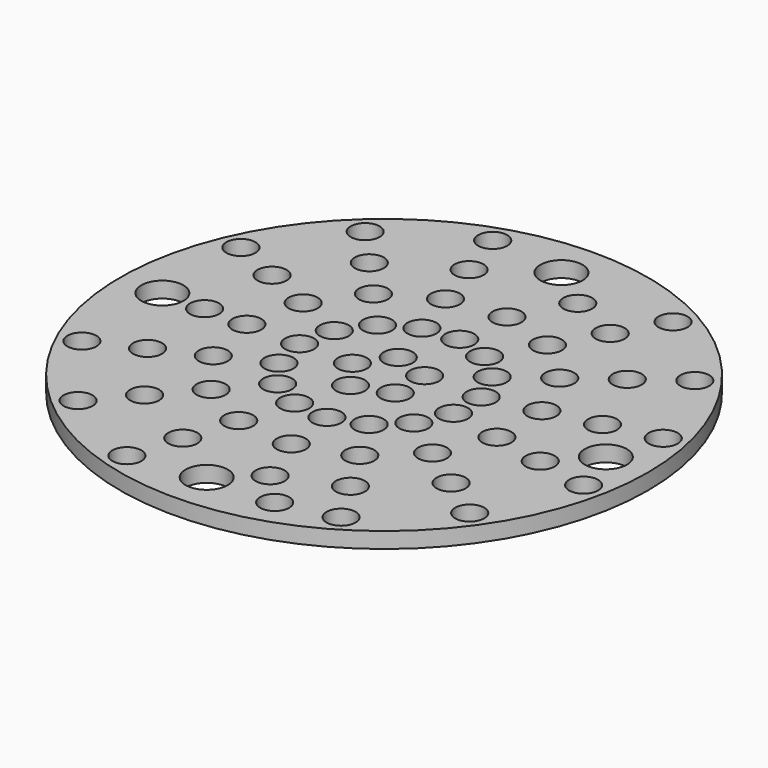
from build123d import *

# Parameters (mm, degrees)
F0_R     = 50
F0_R_2   = 2.75
F0_R_3   = 4
F1_DEPTH = 3


with BuildPart() as f1:
    # F0 (on Top) → F1 (new body)
    with BuildSketch(Plane.XY):
        Circle(F0_R)
        with Locations((-30.221972, -34.678991)):
            Circle(F0_R_2, mode=Mode.SUBTRACT)
        with Locations((-13.558738, -43.956349)):
            Circle(F0_R_2, mode=Mode.SUBTRACT)
        with Locations((-23.651978, -27.14008)):
            Circle(F0_R_2, mode=Mode.SUBTRACT)
        with Locations((-10.611186, -34.400621)):
            Circle(F0_R_2, mode=Mode.SUBTRACT)
        with Locations((-41.690158, -19.44044)):
            Circle(F0_R_2, mode=Mode.SUBTRACT)
        with Locations((-32.62708, -15.214257)):
            Circle(F0_R_2, mode=Mode.SUBTRACT)
        with Locations((-17.081984, -19.601169)):
            Circle(F0_R_2, mode=Mode.SUBTRACT)
        with Locations((-7.663635, -24.844893)):
            Circle(F0_R_2, mode=Mode.SUBTRACT)
        with Locations((-4.716083, -15.289165)):
            Circle(F0_R_2, mode=Mode.SUBTRACT)
        with Locations((-23.564002, -10.988075)):
            Circle(F0_R_2, mode=Mode.SUBTRACT)
        with Locations((-14.500925, -6.761892)):
            Circle(F0_R_2, mode=Mode.SUBTRACT)
        with Locations((-10.51199, -12.062258)):
            Circle(F0_R_2, mode=Mode.SUBTRACT)
        with Locations((-1.768531, -5.733437)):
            Circle(F0_R_2, mode=Mode.SUBTRACT)
        with Locations((0, -42)):
            Circle(F0_R_3, mode=Mode.SUBTRACT)
        with Locations((12.873565, -42)):
            Circle(F0_R_2, mode=Mode.SUBTRACT)
        with Locations((23.494835, -39.547348)):
            Circle(F0_R_2, mode=Mode.SUBTRACT)
        with Locations((7.00363, -35.747819)):
            Circle(F0_R_2, mode=Mode.SUBTRACT)
        with Locations((3.072066, -25.81787)):
            Circle(F0_R_2, mode=Mode.SUBTRACT)
        with Locations((18.387262, -30.950098)):
            Circle(F0_R_2, mode=Mode.SUBTRACT)
        with Locations((37.5158, -26.61888)):
            Circle(F0_R_2, mode=Mode.SUBTRACT)
        with Locations((1.890502, -15.88792)):
            Circle(F0_R_2, mode=Mode.SUBTRACT)
        with Locations((8.172117, -13.755599)):
            Circle(F0_R_2, mode=Mode.SUBTRACT)
        with Locations((13.27969, -22.352849)):
            Circle(F0_R_2, mode=Mode.SUBTRACT)
        with Locations((21.204583, -15.045454)):
            Circle(F0_R_2, mode=Mode.SUBTRACT)
        with Locations((4.893365, -3.472028)):
            Circle(F0_R_2, mode=Mode.SUBTRACT)
        with Locations((13.048974, -9.258741)):
            Circle(F0_R_2, mode=Mode.SUBTRACT)
        with Locations((15.68276, -3.170338)):
            Circle(F0_R_2, mode=Mode.SUBTRACT)
        with Locations((29.360191, -20.832167)):
            Circle(F0_R_2, mode=Mode.SUBTRACT)
        with Locations((35.28621, -7.133261)):
            Circle(F0_R_2, mode=Mode.SUBTRACT)
        with Locations((25.484485, -5.1518)):
            Circle(F0_R_2, mode=Mode.SUBTRACT)
        with Locations((45.087934, -9.114723)):
            Circle(F0_R_2, mode=Mode.SUBTRACT)
        with Locations((-42, 0)):
            Circle(F0_R_3, mode=Mode.SUBTRACT)
        with Locations((-34, 0)):
            Circle(F0_R_2, mode=Mode.SUBTRACT)
        with Locations((-26, 0)):
            Circle(F0_R_2, mode=Mode.SUBTRACT)
        with Locations((-42.046383, 18.657482)):
            Circle(F0_R_2, mode=Mode.SUBTRACT)
        with Locations((-32.905865, 14.601508)):
            Circle(F0_R_2, mode=Mode.SUBTRACT)
        with Locations((-16, 0)):
            Circle(F0_R_2, mode=Mode.SUBTRACT)
        with Locations((-23.765347, 10.545534)):
            Circle(F0_R_2, mode=Mode.SUBTRACT)
        with Locations((-14.624829, 6.489559)):
            Circle(F0_R_2, mode=Mode.SUBTRACT)
        with Locations((-6, 0)):
            Circle(F0_R_2, mode=Mode.SUBTRACT)
        with Locations((-1.875431, 5.699365)):
            Circle(F0_R_2, mode=Mode.SUBTRACT)
        with Locations((-10.735703, 11.863586)):
            Circle(F0_R_2, mode=Mode.SUBTRACT)
        with Locations((-17.445517, 19.278328)):
            Circle(F0_R_2, mode=Mode.SUBTRACT)
        with Locations((-5.001148, 15.198306)):
            Circle(F0_R_2, mode=Mode.SUBTRACT)
        with Locations((-8.126866, 24.697248)):
            Circle(F0_R_2, mode=Mode.SUBTRACT)
        with Locations((-30.865146, 34.107811)):
            Circle(F0_R_2, mode=Mode.SUBTRACT)
        with Locations((-24.155331, 26.69307)):
            Circle(F0_R_2, mode=Mode.SUBTRACT)
        with Locations((-11.252584, 34.196189)):
            Circle(F0_R_2, mode=Mode.SUBTRACT)
        with Locations((-14.378301, 43.695131)):
            Circle(F0_R_2, mode=Mode.SUBTRACT)
        with Locations((4.827587, 3.562921)):
            Circle(F0_R_2, mode=Mode.SUBTRACT)
        with Locations((15.620736, 3.463034)):
            Circle(F0_R_2, mode=Mode.SUBTRACT)
        with Locations((12.873564, 9.501123)):
            Circle(F0_R_2, mode=Mode.SUBTRACT)
        with Locations((1.593086, 15.920492)):
            Circle(F0_R_2, mode=Mode.SUBTRACT)
        with Locations((7.913474, 13.906003)):
            Circle(F0_R_2, mode=Mode.SUBTRACT)
        with Locations((20.919542, 15.439325)):
            Circle(F0_R_2, mode=Mode.SUBTRACT)
        with Locations((12.859395, 22.597256)):
            Circle(F0_R_2, mode=Mode.SUBTRACT)
        with Locations((25.383696, 5.62743)):
            Circle(F0_R_2, mode=Mode.SUBTRACT)
        with Locations((35.146656, 7.791826)):
            Circle(F0_R_2, mode=Mode.SUBTRACT)
        with Locations((42, 0)):
            Circle(F0_R_3, mode=Mode.SUBTRACT)
        with Locations((44.909616, 9.956222)):
            Circle(F0_R_2, mode=Mode.SUBTRACT)
        with Locations((28.96552, 21.377527)):
            Circle(F0_R_2, mode=Mode.SUBTRACT)
        with Locations((2.588764, 25.8708)):
            Circle(F0_R_2, mode=Mode.SUBTRACT)
        with Locations((8.034443, 35.821106)):
            Circle(F0_R_2, mode=Mode.SUBTRACT)
        with Locations((17.805316, 31.288508)):
            Circle(F0_R_2, mode=Mode.SUBTRACT)
        with Locations((0, 42)):
            Circle(F0_R_3, mode=Mode.SUBTRACT)
        with Locations((22.751237, 39.97976)):
            Circle(F0_R_2, mode=Mode.SUBTRACT)
        with Locations((37.011498, 27.315729)):
            Circle(F0_R_2, mode=Mode.SUBTRACT)
    extrude(amount=F1_DEPTH)


solid = f1.part
